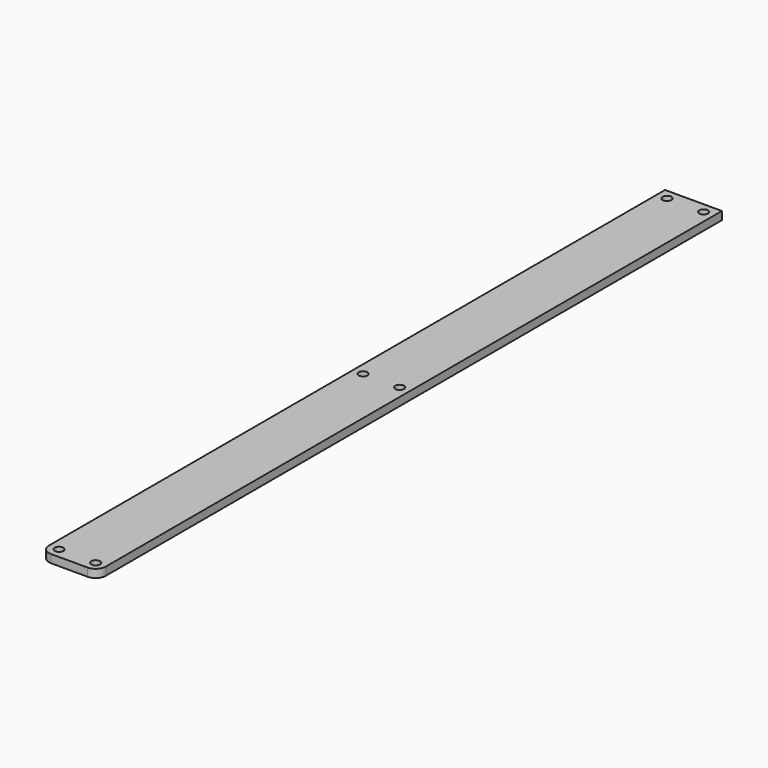
from build123d import *

# Parameters (mm, degrees)
F0_W     = 22.225
F0_H     = 304.8
F0_R     = 1.7272
F1_DEPTH = 3.175
F2_R     = 3.96875


with BuildPart() as f1:
    # F0 (on Top) → F1 (new body)
    with BuildSketch(Plane.XY):
        with Locations((11.1125, -152.4)):
            Rectangle(F0_W, F0_H)
        with Locations((3.96875, -300.83125)):
            Circle(F0_R, mode=Mode.SUBTRACT)
        with Locations((18.25625, -300.83125)):
            Circle(F0_R, mode=Mode.SUBTRACT)
        with Locations((3.96875, -152.4)):
            Circle(F0_R, mode=Mode.SUBTRACT)
        with Locations((3.96875, -3.96875)):
            Circle(F0_R, mode=Mode.SUBTRACT)
        with Locations((18.25625, -152.4)):
            Circle(F0_R, mode=Mode.SUBTRACT)
        with Locations((18.25625, -3.96875)):
            Circle(F0_R, mode=Mode.SUBTRACT)
    extrude(amount=F1_DEPTH)

    # F2
    f2_edges = [f1.edges().sort_by_distance(p)[0] for p in [
        (0, -304.8, 1.5875),
        (22.225, -304.8, 1.5875),
    ]]
    fillet(f2_edges, radius=F2_R)


solid = f1.part
